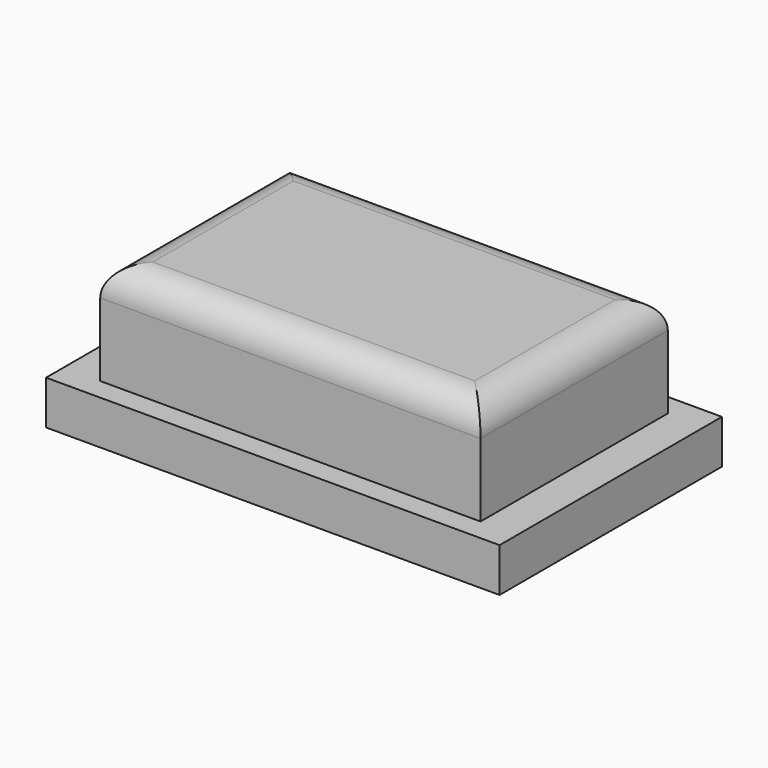
from build123d import *

# Parameters (mm, degrees)
BOX202_W     = 13
BOX202_H     = 8
BOX202_DEPTH = 5
FILLET049_R  = 1
BOX204_W     = 15.5
BOX204_H     = 9.5
BOX204_DEPTH = 1.5


with BuildPart() as fillet049:
    # Box202 → Box202 (new body)
    with BuildSketch(Plane(origin=(61.5, 20, 6.3), x_dir=(1, 0, 0), z_dir=(0, 0, 1))):
        with Locations((6.5, 4)):
            Rectangle(BOX202_W, BOX202_H)
    extrude(amount=BOX202_DEPTH)

    # Fillet049
    fillet049_edges = [fillet049.edges().sort_by_distance(p)[0] for p in [
        (61.5, 24, 11.3),
        (74.5, 24, 11.3),
        (68, 20, 11.3),
        (68, 28, 11.3),
    ]]
    fillet(fillet049_edges, radius=FILLET049_R)


with BuildPart() as fusion063:
    # Box204 → Box204 (new body)
    with BuildSketch(Plane(origin=(60.25, 19.25, 6.3), x_dir=(1, 0, 0), z_dir=(0, 0, 1))):
        with Locations((7.75, 4.75)):
            Rectangle(BOX204_W, BOX204_H)
    extrude(amount=BOX204_DEPTH)

    # Fusion063: union Fillet049
    add(fillet049.part)


solid = fusion063.part
